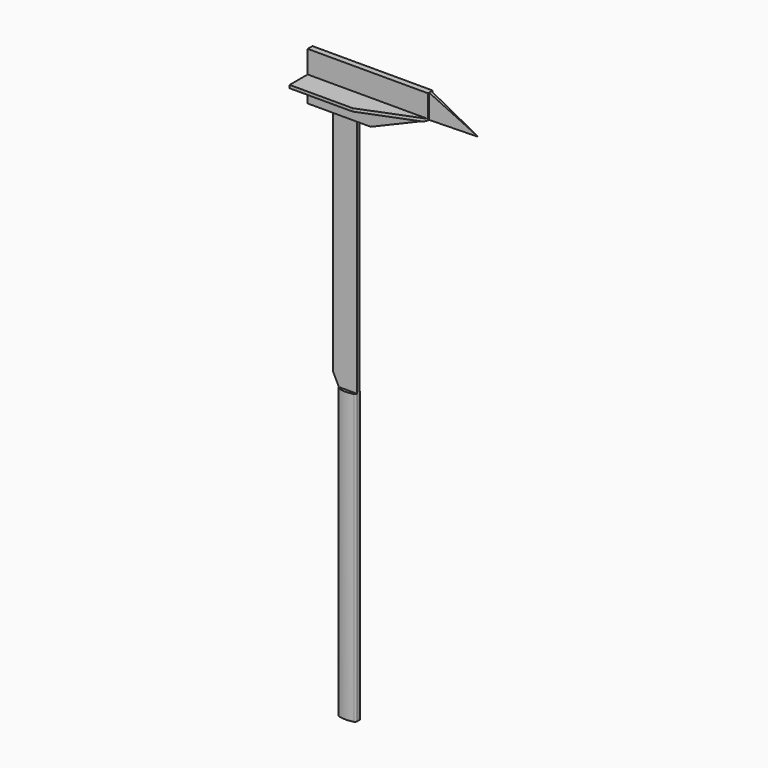
from build123d import *

# Parameters (mm, degrees)
F0_W           = 50.8
F0_H           = 6.35
F1_DEPTH       = 1219.2
F3_START       = 1117.6
F3_DEPTH       = 101.6
F5_DEPTH       = 76.2
F5_DEPTH_BACK  = 76.2
F6_W           = 47.625
F6_H           = 47.625
F7_DEPTH       = 101.6
F7_DEPTH_BACK  = 254
F9_DEPTH       = 609.6
F11_DEPTH      = 25.4
F11_DEPTH_BACK = 25.4


with BuildPart() as f1:
    # F0 (on Top) → F1 (new body)
    with BuildSketch(Plane.XY):
        Rectangle(F0_W, F0_H)
    extrude(amount=F1_DEPTH)

    # F2 (on Top) → F3 (join)
    with BuildSketch(Plane.XY.offset(F3_START)):
        Polygon((57.15, 53.975), (-76.2, 53.975), (-76.2, -53.975), (57.1550797742, -53.975), (177.8, -6.35), (177.8, -3.175), (279.4, 0), (177.8, 3.175), (177.8, 6.35), align=None)
    extrude(amount=F3_DEPTH)

    # F4 (on Front) → F5 (cut, two sides)
    with BuildSketch(Plane.XZ) as f5_sk:
        Polygon((279.4, 1117.6), (279.4, 1168.4), (177.8, 1168.4), (57.15, 1117.6), align=None)
        Polygon((177.8, 1219.2), (279.4, 1168.4), (279.4, 1219.2), align=None)
    extrude(amount=-F5_DEPTH, mode=Mode.SUBTRACT)
    extrude(f5_sk.sketch, amount=F5_DEPTH_BACK, mode=Mode.SUBTRACT)

    # F6 (on Right) → F7 (cut, two sides)
    with BuildSketch(Plane.YZ) as f7_sk:
        with Locations((-30.1625, 1195.3875)):
            Rectangle(F6_W, F6_H)
        with Locations((-30.1625, 1141.4125)):
            Rectangle(F6_W, F6_H)
        with Locations((30.1625, 1141.4125)):
            Rectangle(F6_W, F6_H)
        with Locations((30.1625, 1195.3875)):
            Rectangle(F6_W, F6_H)
    extrude(amount=-F7_DEPTH, mode=Mode.SUBTRACT)
    extrude(f7_sk.sketch, amount=F7_DEPTH_BACK, mode=Mode.SUBTRACT)

    # F10 (on Front) → F11 (cut, two sides)
    with BuildSketch(Plane.XZ) as f11_sk:
        Polygon((-12.7, 0), (-12.7, 609.6), (-25.4, 635), (-25.4, 0), align=None)
    extrude(amount=-F11_DEPTH, mode=Mode.SUBTRACT)
    extrude(f11_sk.sketch, amount=F11_DEPTH_BACK, mode=Mode.SUBTRACT)


with BuildPart() as f9:
    # F8 (on Top) → F9 (new body)
    with BuildSketch(Plane.XY):
        with BuildLine():
            ThreePointArc((-9.525, 7.3390541895), (-11.8090339699, 5.7881189716), (-12.7, 3.175))
            Line((-12.7, 3.175), (25.4, 3.175))
            ThreePointArc((25.4, 3.175), (24.5090339699, 5.7881189716), (22.225, 7.3390541895))
            ThreePointArc((22.225, 7.3390541895), (6.35, 9.525), (-9.525, 7.3390541895))
        make_face()
        with BuildLine():
            Line((25.4, 3.175), (-12.7, 3.175))
            ThreePointArc((-12.7, 3.175), (6.35, 3.0338726406), (25.4, 3.175))
        make_face()
    extrude(amount=F9_DEPTH)


with BuildPart() as f9b:
    # F8 (on Top) → F9, piece 2 (new body)
    with BuildSketch(Plane.XY):
        with BuildLine():
            ThreePointArc((22.225, -7.3390541895), (24.5090339699, -5.7881189716), (25.4, -3.175))
            Line((25.4, -3.175), (-12.7, -3.175))
            ThreePointArc((-12.7, -3.175), (-11.8090339699, -5.7881189716), (-9.525, -7.3390541895))
            ThreePointArc((-9.525, -7.3390541895), (6.35, -9.525), (22.225, -7.3390541895))
        make_face()
    extrude(amount=F9_DEPTH)


solid = Compound([f1.part, f9.part, f9b.part])
